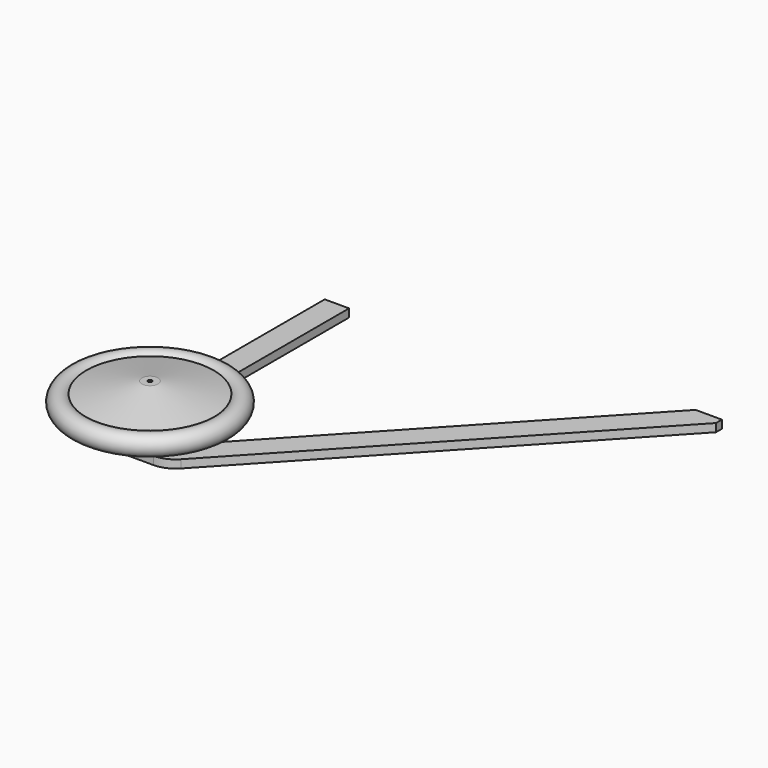
from build123d import *

# Parameters (mm, degrees)
F0_R     = 0.5
F1_DEPTH = 2
F2_DEPTH = 2
F7_R     = 0.5
F8_DEPTH = 25


with BuildPart() as f1:
    # F0 (on Top) → F1 (new body)
    with BuildSketch(Plane.XY):
        with BuildLine():
            Line((0, 10), (0, 0))
            Line((0, 0), (9, 0))
            ThreePointArc((9, 0), (11.7273010219, 0.5672794284), (14.002197756, 2.1750174863))
            Line((14.002197756, 2.1750174863), (84.9752155788, 78.2842610556))
            Line((84.9752155788, 78.2842610556), (84.9752155788, 80.1115395542))
            Line((84.9752155788, 80.1115395542), (78.4752155788, 80.1115395542))
            Line((78.4752155788, 80.1115395542), (13.6853713729, 10.6329379004))
            Line((13.6853713729, 10.6329379004), (0, 10))
        make_face()
        with Locations((4, 5.1849969236)):
            Circle(F0_R, mode=Mode.SUBTRACT)
    extrude(amount=F1_DEPTH)


with BuildPart() as f2:
    # F0 (on Top) → F2 (new body)
    with BuildSketch(Plane.XY):
        with BuildLine():
            Line((-3, 0), (0, 0))
            Line((0, 0), (0, 10))
            Line((0, 10), (0, 71.5))
            Line((0, 71.5), (-6, 71.5))
            Line((-6, 71.5), (-6, 3))
            ThreePointArc((-6, 3), (-5.1213203436, 0.8786796564), (-3, 0))
        make_face()
    extrude(amount=F2_DEPTH)


with BuildPart() as f6:
    # F5 (on plane+point) → F6 (revolve)
    with BuildSketch(Plane.YZ.offset(4)):
        with BuildLine():
            Line((7.1849969236, 5.5), (20.8672357266, 8.2836829457))
            ThreePointArc((20.8672357266, 8.2836829457), (25.1849969236, 10), (20.8672357266, 11.7163170543))
            Line((20.8672357266, 11.7163170543), (7.1849969236, 14.5))
            Line((7.1849969236, 14.5), (5.1849969236, 14.5))
            Line((5.1849969236, 14.5), (5.1849969236, 5.5))
            Line((5.1849969236, 5.5), (7.1849969236, 5.5))
        make_face()
    revolve(axis=Axis((4, 5.1849969236, 10), (0, 0, 1)))

    # F7 (on face) → F8 (cut)
    with BuildSketch(Plane.XY.offset(14.5)):
        with Locations((4, 5.1849969236)):
            Circle(F7_R)
    extrude(amount=-F8_DEPTH, mode=Mode.SUBTRACT)


solid = Compound([f1.part, f2.part, f6.part])
